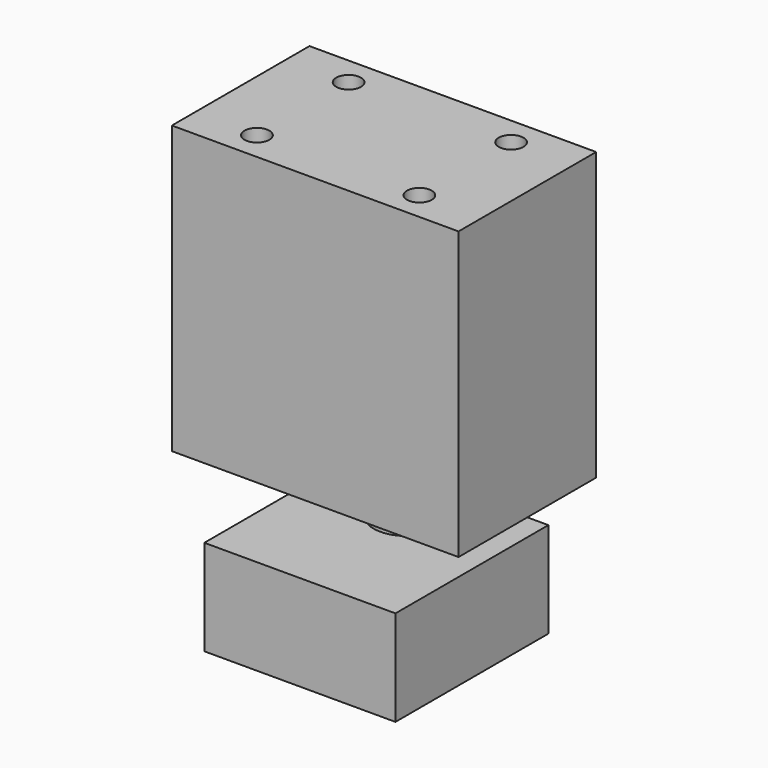
from build123d import *

# Parameters (mm, degrees)
F0_W      = 30
F0_H      = 18
F1_DEPTH  = 30
F3_W      = 20
F3_H      = 20
F5_DEPTH  = 10
F4_R      = 3.5
F6_DEPTH  = 46
F9_R      = 0.5
F7_R      = 3.5
F11_R     = 1.3
F12_DEPTH = 8


with BuildPart() as f1:
    # F0 (on Top) → F1 (new body)
    with BuildSketch(Plane.XY):
        Rectangle(F0_W, F0_H)
    extrude(amount=F1_DEPTH)



with BuildPart() as f5:
    # F3 (on offset) → F5 (new body)
    with BuildSketch(Plane.XY.offset(-6)):
        with Locations((0, -1)):
            Rectangle(F3_W, F3_H)
    extrude(amount=-F5_DEPTH)


with BuildPart() as f1_1:
    add(f1.part)

    add(f5.part)  # F6 merges F5
    # F4 (on face) → F6 (join, through all)
    with BuildSketch(Plane.XY.offset(30)):
        with Locations((0, 3)):
            Circle(F4_R)
    extrude(amount=-F6_DEPTH)

    # F9 (on offset) → F10 section 0
    with BuildSketch(Plane.XY.offset(-21.5)):
        with Locations((0, 3)):
            Circle(F9_R)
    # F7 (on face) → F10 section 1
    with BuildSketch(Plane(origin=(0, 0, -16), x_dir=(1, 0, 0), z_dir=(0, 0, -1))):
        with Locations((0, -3)):
            Circle(F7_R)
    loft()

    # F11 (on face) → F12 (cut)
    with BuildSketch(Plane.XY.offset(30)):
        with Locations((-8.5, 6)):
            Circle(F11_R)
        with Locations((8.5, 6)):
            Circle(F11_R)
        with Locations((8.5, -6)):
            Circle(F11_R)
        with Locations((-8.5, -6)):
            Circle(F11_R)
    extrude(amount=-F12_DEPTH, mode=Mode.SUBTRACT)


solid = f1_1.part
